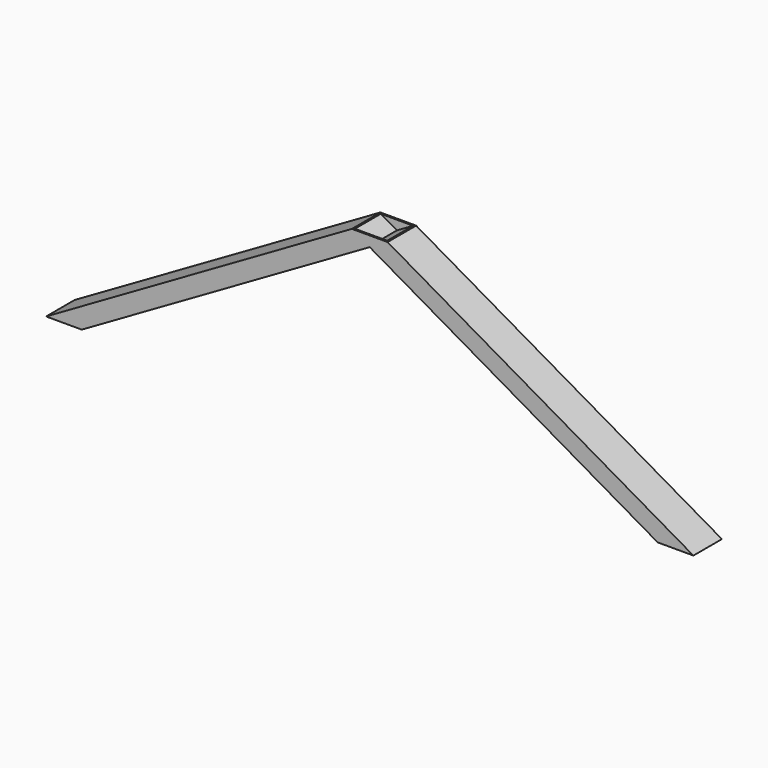
from build123d import *

# Parameters (mm, degrees)
F1_W   = 69.977
F1_H   = 69.977
F1_W_2 = 63.5
F1_H_2 = 63.5
F4_W   = 69.977
F4_H   = 69.977
F4_W_2 = 63.5
F4_H_2 = 63.5


with BuildPart() as f2:
    # F2: sweep along a path in F0
    with BuildLine(Plane.XZ) as f2_path:
        Line((599.947412, 346.3798), (1199.894825, 0))
    # F1 (on Top) → F2 (sweep)
    with BuildSketch(Plane.XY):
        with Locations((1199.9976, 0)):
            Rectangle(F1_W, F1_H)
        with Locations((1199.9976, 0)):
            Rectangle(F1_W_2, F1_H_2, mode=Mode.SUBTRACT)
    sweep(path=f2_path.line)

    # F5: sweep along a path in F3
    with BuildLine(Plane.XZ) as f5_path:
        Line((0, 0), (599.948, 346.380139))
    # F4 (on Top) → F5 (sweep)
    with BuildSketch(Plane.XY):
        Rectangle(F4_W, F4_H)
        Rectangle(F4_W_2, F4_H_2, mode=Mode.SUBTRACT)
    sweep(path=f5_path.line)


solid = f2.part
